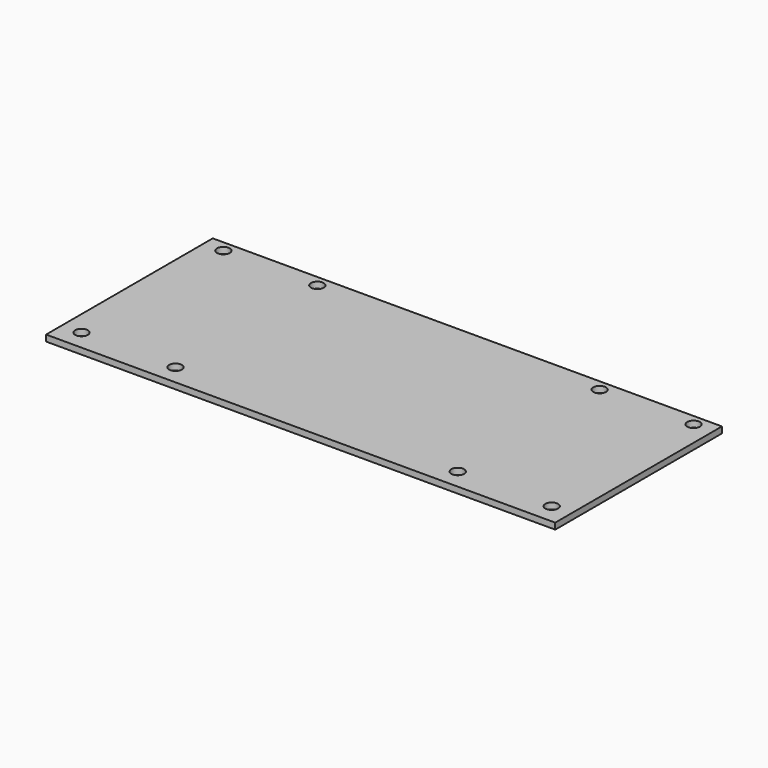
from build123d import *

# Parameters (mm, degrees)
F0_W     = 146.05
F0_H     = 59.7662
F0_R     = 1.8288
F1_DEPTH = 1.778


with BuildPart() as f1:
    # F0 (on Top) → F1 (new body)
    with BuildSketch(Plane.XY):
        Rectangle(F0_W, F0_H)
        with Locations((-67.437, -24.1681)):
            Circle(F0_R, mode=Mode.SUBTRACT)
        with Locations((-40.4876, -24.1681)):
            Circle(F0_R, mode=Mode.SUBTRACT)
        with Locations((40.4876, -24.1681)):
            Circle(F0_R, mode=Mode.SUBTRACT)
        with Locations((67.437, -24.1681)):
            Circle(F0_R, mode=Mode.SUBTRACT)
        with Locations((-67.437, 26.7081)):
            Circle(F0_R, mode=Mode.SUBTRACT)
        with Locations((-40.4876, 26.7081)):
            Circle(F0_R, mode=Mode.SUBTRACT)
        with Locations((40.4876, 26.7081)):
            Circle(F0_R, mode=Mode.SUBTRACT)
        with Locations((67.437, 26.7081)):
            Circle(F0_R, mode=Mode.SUBTRACT)
    extrude(amount=F1_DEPTH)


solid = f1.part
